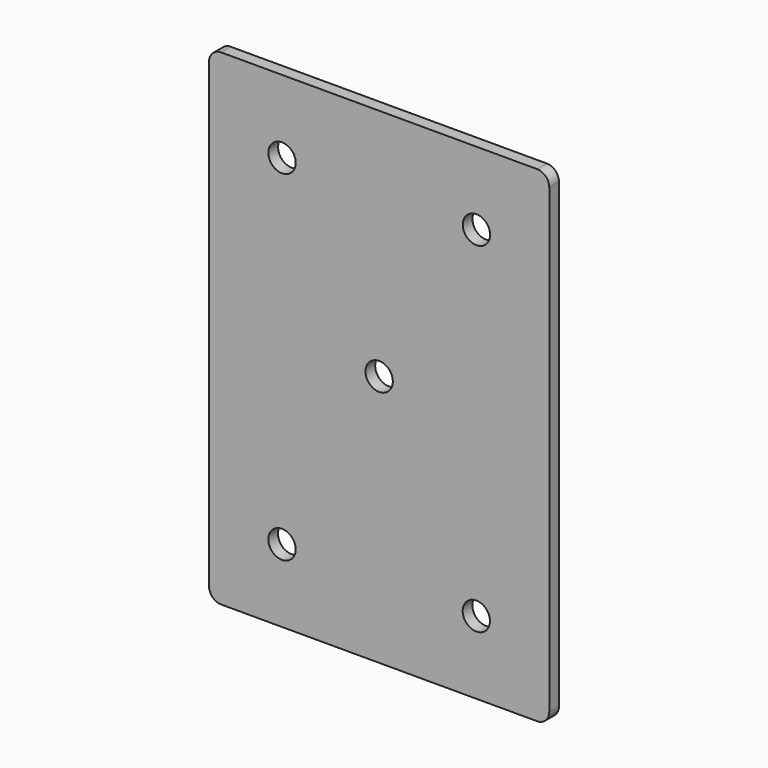
from build123d import *

# Parameters (mm, degrees)
F0_R     = 7.14375
F1_DEPTH = 6.35


with BuildPart() as f1:
    # F0 (on Front) → F1 (new body)
    with BuildSketch(Plane.XZ):
        with BuildLine():
            ThreePointArc((88.9, 120.65), (87.040128, 125.140128), (82.55, 127))
            Line((82.55, 127), (-82.55, 127))
            ThreePointArc((-82.55, 127), (-87.040128, 125.140128), (-88.9, 120.65))
            Line((-88.9, 120.65), (-88.9, -120.65))
            ThreePointArc((-88.9, -120.65), (-87.040128, -125.140128), (-82.55, -127))
            Line((-82.55, -127), (82.55, -127))
            ThreePointArc((82.55, -127), (87.040128, -125.140128), (88.9, -120.65))
            Line((88.9, -120.65), (88.9, 120.65))
        make_face()
        with Locations((-50.776048, -88.981407)):
            Circle(F0_R, mode=Mode.SUBTRACT)
        with Locations((50.779248, -88.921488)):
            Circle(F0_R, mode=Mode.SUBTRACT)
        with Locations((-50.737237, 88.847879)):
            Circle(F0_R, mode=Mode.SUBTRACT)
        with Locations((0.008179, 4.762449)):
            Circle(F0_R, mode=Mode.SUBTRACT)
        with Locations((50.837465, 88.808103)):
            Circle(F0_R, mode=Mode.SUBTRACT)
    extrude(amount=F1_DEPTH)


solid = f1.part
